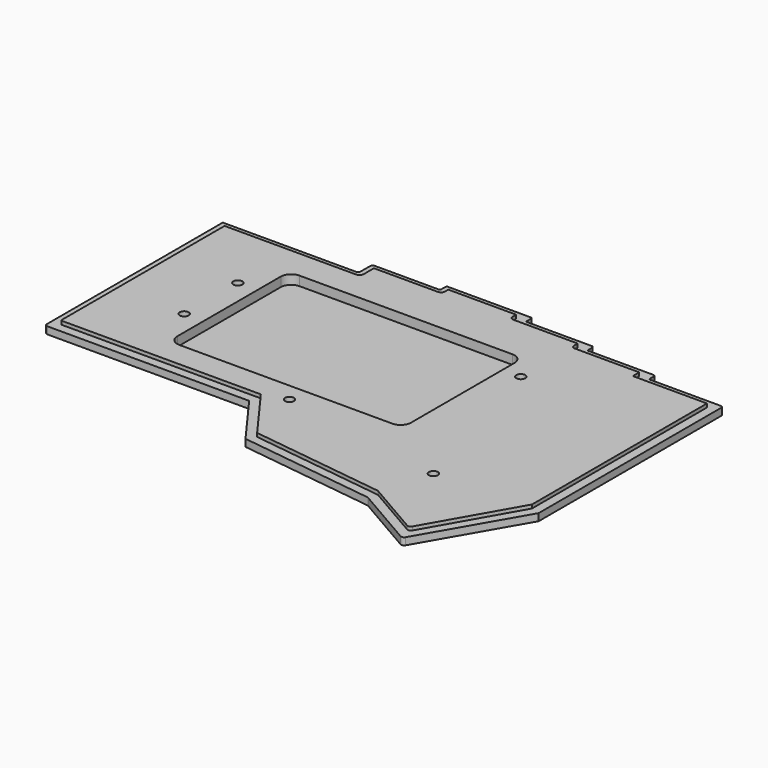
from build123d import *

# Parameters (mm, degrees)
PAD022_DEPTH    = 2
PAD023_DEPTH    = 1
SKETCH097_R     = 1.25
POCKET015_DEPTH = 3.001
POCKET017_DEPTH = 2.6
SKETCH106_R     = 2.5
POCKET020_DEPTH = 1
SKETCH107_R     = 1.264414
SKETCH107_R_2   = 1.25
PAD027_DEPTH    = 0.24


with BuildPart() as part:
    # Sketch095 (on Face1 of ShapeBinder) → Pad022 (new body)
    with BuildSketch(Plane(origin=(0, 0, -16), x_dir=(1, 0, 0), z_dir=(0, 0, -1))):
        with BuildLine():
            Line((-2.2752, 3), (54.173381, 3))
            Line((54.173381, 3), (64.759843, 17.512342))
            Line((64.759843, 17.512342), (102.945986, 22.478633))
            Line((102.945986, 22.478633), (119.981121, 32.333705))
            ThreePointArc((121.153574, 32.019327), (120.632553, 32.419699), (119.981121, 32.333705))
            Line((121.153574, 32.019327), (136.73, 4.963884))
            Line((136.73, 4.963884), (136.73, -58.882076))
            ThreePointArc((136.112076, -59.5), (136.549014, -59.319014), (136.73, -58.882076))
            Line((136.112076, -59.5), (116.333806, -59.5))
            ThreePointArc((116.333806, -59.5), (116.083627, -59.603627), (115.98, -59.853806))
            Line((115.98, -59.853806), (115.98, -61.299282))
            ThreePointArc((115.529282, -61.75), (115.847988, -61.617988), (115.98, -61.299282))
            Line((115.529282, -61.75), (97.198754, -61.75))
            ThreePointArc((97.198754, -61.75), (97.044072, -61.814072), (96.98, -61.968754))
            Line((96.98, -61.968754), (96.98, -63.416556))
            ThreePointArc((96.396556, -64), (96.809113, -63.829113), (96.98, -63.416556))
            Line((96.396556, -64), (78.3317, -64))
            ThreePointArc((78.3317, -64), (78.083011, -64.103011), (77.98, -64.3517))
            Line((77.98, -64.3517), (77.98, -65.831599))
            ThreePointArc((77.561599, -66.25), (77.857453, -66.127453), (77.98, -65.831599))
            Line((77.561599, -66.25), (54.449571, -66.25))
            ThreePointArc((53.98, -65.780429), (54.117534, -66.112466), (54.449571, -66.25))
            Line((53.98, -65.780429), (53.98, -64.448303))
            ThreePointArc((53.98, -64.448303), (53.848695, -64.131305), (53.531697, -64))
            Line((53.531697, -64), (35.784272, -64))
            ThreePointArc((34.98, -63.195728), (35.215566, -63.764434), (35.784272, -64))
            Line((34.98, -63.195728), (34.98, -59.939901))
            ThreePointArc((34.98, -59.939901), (34.777933, -59.452067), (34.290099, -59.25))
            Line((34.290099, -59.25), (-3, -59.25))
            Line((-3, -59.25), (-3, 2.2752))
            ThreePointArc((-2.2752, 3), (-2.787711, 2.787711), (-3, 2.2752))
        make_face()
    extrude(amount=PAD022_DEPTH)

    # Sketch096 (on Face1 of ShapeBinder) → Pad023 (join)
    with BuildSketch(Plane(origin=(0, 0, -16), x_dir=(1, 0, 0), z_dir=(0, 0, -1))):
        with BuildLine():
            Line((-0.132, 0.5), (55.444173, 0.5))
            Line((55.444173, 0.5), (66.201245, 15.24622))
            Line((66.201245, 15.24622), (103.915077, 20.151085))
            Line((103.915077, 20.151085), (119.119523, 28.947076))
            ThreePointArc((120.320286, 28.621968), (119.787102, 29.032711), (119.119523, 28.947076))
            Line((120.320286, 28.621968), (134.23, 4.188169))
            Line((134.23, 4.188169), (134.23, -56.944054))
            ThreePointArc((134.174054, -57), (134.214403, -56.984403), (134.23, -56.944054))
            Line((134.174054, -57), (113.48, -57))
            Line((113.48, -57), (113.48, -59.216584))
            ThreePointArc((113.446584, -59.25), (113.470113, -59.240113), (113.48, -59.216584))
            Line((113.446584, -59.25), (95.423253, -59.25))
            ThreePointArc((95.423253, -59.25), (94.757913, -59.527912), (94.48, -60.193252))
            Line((94.48, -60.193252), (94.48, -61.412355))
            ThreePointArc((94.392355, -61.5), (94.454172, -61.474172), (94.48, -61.412355))
            Line((94.392355, -61.5), (76.471748, -61.5))
            ThreePointArc((76.471748, -61.5), (75.770092, -61.790091), (75.48, -62.491747))
            Line((75.48, -62.491747), (75.48, -63.721105))
            ThreePointArc((75.451105, -63.75), (75.471446, -63.741446), (75.48, -63.721105))
            Line((75.451105, -63.75), (56.567844, -63.75))
            ThreePointArc((56.48, -63.662156), (56.505729, -63.724271), (56.567844, -63.75))
            Line((56.48, -63.662156), (56.48, -62.563591))
            ThreePointArc((56.48, -62.563591), (56.168481, -61.811519), (55.416409, -61.5))
            Line((55.416409, -61.5), (37.73341, -61.5))
            ThreePointArc((37.48, -61.24659), (37.554222, -61.425778), (37.73341, -61.5))
            Line((37.48, -61.24659), (37.48, -58.013133))
            ThreePointArc((37.48, -58.013133), (37.110037, -57.119963), (36.216867, -56.75))
            Line((36.216867, -56.75), (-0.5, -56.75))
            Line((-0.5, -56.75), (-0.5, 0.132))
            ThreePointArc((-0.132, 0.5), (-0.392215, 0.392215), (-0.5, 0.132))
        make_face()
    extrude(amount=-PAD023_DEPTH)

    # Sketch097 → Pocket015 (cut, through all)
    with BuildSketch(Plane(origin=(0, 0, -18), x_dir=(1, 0, 0), z_dir=(0, 0, -1))):
        with Locations((18.61, -37.509997)):
            Circle(SKETCH097_R)
        with Locations((18.6, -18.76)):
            Circle(SKETCH097_R)
        with Locations((61.84, -1.51)):
            Circle(SKETCH097_R)
        with Locations((108.3, 6.24)):
            Circle(SKETCH097_R)
        with Locations((94.55, -41.5)):
            Circle(SKETCH097_R)
    extrude(amount=-POCKET015_DEPTH, mode=Mode.SUBTRACT)

    # Sketch100 → Pocket017 (cut)
    with BuildSketch(Plane.XY.offset(-15)):
        with BuildLine():
            Line((24.046659, 45.716233), (24.046659, 9.526233))
            ThreePointArc((24.046659, 9.526233), (24.897514, 7.472088), (26.951659, 6.621233))
            Line((26.951659, 6.621233), (86.530577, 6.621233))
            ThreePointArc((86.530577, 6.621233), (88.584722, 7.472088), (89.435577, 9.526233))
            Line((89.435577, 9.526233), (89.435577, 45.716233))
            ThreePointArc((89.435577, 45.716233), (88.584722, 47.770378), (86.530577, 48.621233))
            Line((86.530577, 48.621233), (26.951659, 48.621233))
            ThreePointArc((26.951659, 48.621233), (24.897514, 47.770378), (24.046659, 45.716233))
        make_face()
    extrude(amount=-POCKET017_DEPTH, mode=Mode.SUBTRACT)

    # Sketch106 (on Face5 of Pocket017) → Pocket020 (cut)
    with BuildSketch(Plane(origin=(0, 0, -18), x_dir=(1, 0, 0), z_dir=(0, 0, -1))):
        with Locations((61.84, -1.51)):
            Circle(SKETCH106_R)
        with Locations((108.3, 6.24)):
            Circle(SKETCH106_R)
        with Locations((94.55, -41.5)):
            Circle(SKETCH106_R)
        with Locations((18.61, -37.509997)):
            Circle(SKETCH106_R)
        with Locations((18.6, -18.76)):
            Circle(SKETCH106_R)
    extrude(amount=-POCKET020_DEPTH, mode=Mode.SUBTRACT)

    # Sketch107 (on Face70 of Pocket020) → Pad027 (join)
    with BuildSketch(Plane(origin=(0, 0, -17), x_dir=(1, 0, 0), z_dir=(0, 0, -1))):
        with Locations((61.84, -1.51)):
            Circle(SKETCH107_R)
        with Locations((18.6, -18.76)):
            Circle(SKETCH107_R_2)
        with Locations((108.3, 6.24)):
            Circle(SKETCH107_R_2)
        with Locations((94.55, -41.5)):
            Circle(SKETCH107_R_2)
        with Locations((18.61, -37.509997)):
            Circle(SKETCH107_R_2)
    extrude(amount=-PAD027_DEPTH)


with BuildPart() as part_1:
    # Body placement: moved
    add(part.part.moved(Location((0, 0, 9.4))))


solid = part_1.part
